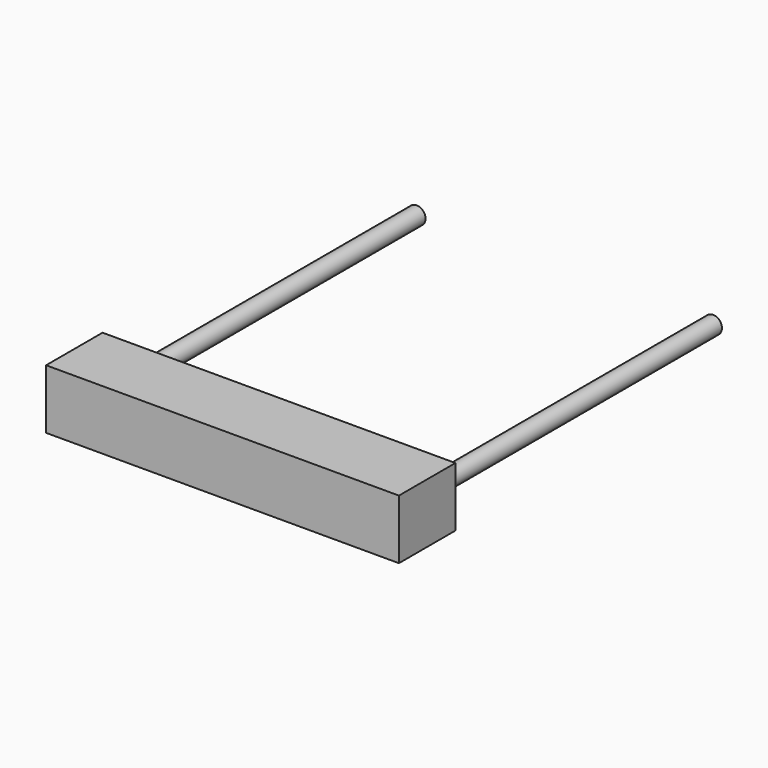
from build123d import *

# Parameters (mm, degrees)
F0_W     = 127
F0_H     = 21.425162
F1_DEPTH = 25.4
F2_R     = 3.175
F3_DEPTH = 127


with BuildPart() as f1:
    # F0 (on Front) → F1 (new body)
    with BuildSketch(Plane.XZ):
        Rectangle(F0_W, F0_H)
    extrude(amount=F1_DEPTH)

    # F2 (on face) → F3 (join)
    with BuildSketch(Plane.XZ):
        with Locations((54.658038, 0)):
            Circle(F2_R)
        with Locations((-52.021962, 0)):
            Circle(F2_R)
    extrude(amount=-F3_DEPTH)


solid = f1.part
